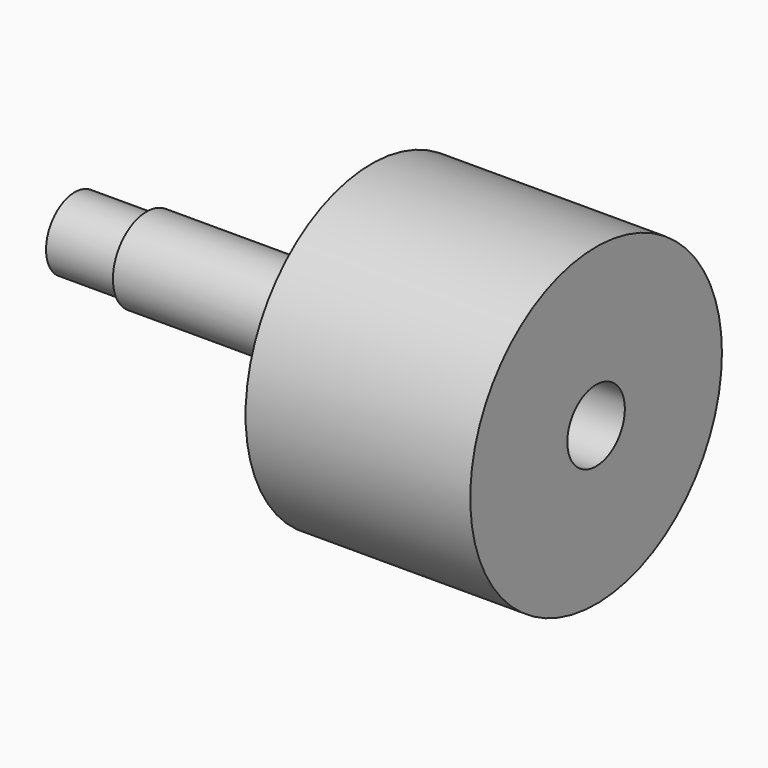
from build123d import *

# Parameters (mm, degrees)
F0_R     = 4
F1_DEPTH = 8
F2_R     = 4.7
F2_R_2   = 4
F3_DEPTH = 25
F4_R     = 17.5
F4_R_2   = 4.7
F4_R_3   = 4
F5_DEPTH = 25


with BuildPart() as f1:
    # F0 (on Right) → F1 (new body)
    with BuildSketch(Plane.YZ):
        Circle(F0_R)
    extrude(amount=F1_DEPTH)

    # F2 (on face) → F3 (join)
    with BuildSketch(Plane.YZ.offset(8)):
        Circle(F2_R)
        Circle(F2_R_2, mode=Mode.SUBTRACT)
    extrude(amount=F3_DEPTH)

    # F4 (on face) → F5 (join)
    with BuildSketch(Plane.YZ.offset(33)):
        Circle(F4_R)
        Circle(F4_R_2, mode=Mode.SUBTRACT)
        Circle(F4_R_2)
        Circle(F4_R_3, mode=Mode.SUBTRACT)
    extrude(amount=F5_DEPTH)


solid = f1.part
